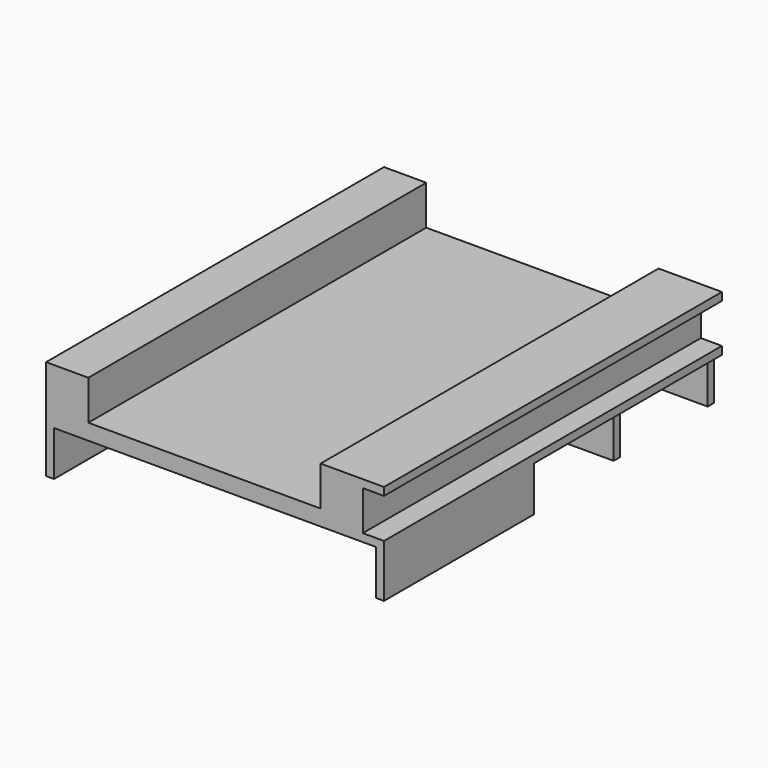
from build123d import *

# Parameters (mm, degrees)
F0_W      = 762
F0_H      = 1016
F1_DEPTH  = 19.05
F2_W      = 101.6
F2_H      = 1016
F3_DEPTH  = 76.2
F4_W      = 152.4
F4_H      = 1016
F5_DEPTH  = 19.05
F6_W      = 812.8
F6_H      = 1016
F7_DEPTH  = 19.05
F8_W      = 101.6
F8_H      = 1016
F9_DEPTH  = 19.05
F10_W     = 19.05
F10_H     = 431.8
F10_W_2   = 387.35
F10_H_2   = 19.05
F10_W_3   = 368.3
F11_DEPTH = 107.95


with BuildPart() as f1:
    # F0 (on Top) → F1 (new body)
    with BuildSketch(Plane.XY):
        with Locations((381, 508)):
            Rectangle(F0_W, F0_H)
    extrude(amount=F1_DEPTH)

    # F2 (on face) → F3 (join)
    with BuildSketch(Plane.XY.offset(19.05)):
        with Locations((50.8, 508)):
            Rectangle(F2_W, F2_H)
        with Locations((711.2, 508)):
            Rectangle(F2_W, F2_H)
    extrude(amount=F3_DEPTH)

    # F4 (on face) → F5 (join)
    with BuildSketch(Plane.XY.offset(95.25)):
        with Locations((736.6, 508)):
            Rectangle(F4_W, F4_H)
    extrude(amount=F5_DEPTH)

    # F6 (on face) → F7 (join)
    with BuildSketch(Plane(origin=(0, 0, 0), x_dir=(1, 0, 0), z_dir=(0, 0, -1))):
        with Locations((406.4, -508)):
            Rectangle(F6_W, F6_H)
    extrude(amount=F7_DEPTH)

    # F8 (on face) → F9 (join)
    with BuildSketch(Plane.XY.offset(95.25)):
        with Locations((50.8, 508)):
            Rectangle(F8_W, F8_H)
    extrude(amount=F9_DEPTH)

    # F10 (on face) → F11 (join)
    with BuildSketch(Plane(origin=(0, 0, -19.05), x_dir=(1, 0, 0), z_dir=(0, 0, -1))):
        with Locations((9.525, -215.9)):
            Rectangle(F10_W, F10_H)
        Polygon((19.05, -431.8), (0, -431.8), (0, -450.85), (19.05, -450.85), (406.4, -450.85), (425.45, -450.85), (793.75, -450.85), (812.8, -450.85), (812.8, -431.8), (793.75, -431.8), align=None)
        with Locations((803.275, -215.9)):
            Rectangle(F10_W, F10_H)
        with Locations((212.725, -460.375)):
            Rectangle(F10_W_2, F10_H_2)
        Polygon((425.45, -450.85), (406.4, -450.85), (406.4, -469.9), (406.4, -714.375), (406.4, -733.425), (406.4, -996.95), (425.45, -996.95), (425.45, -733.425), (425.45, -714.375), (425.45, -469.9), align=None)
        with Locations((609.6, -460.375)):
            Rectangle(F10_W_3, F10_H_2)
        with Locations((212.725, -723.9)):
            Rectangle(F10_W_2, F10_H_2)
        with Locations((609.6, -723.9)):
            Rectangle(F10_W_3, F10_H_2)
        Polygon((425.45, -996.95), (406.4, -996.95), (19.05, -996.95), (19.05, -1016), (793.75, -1016), (793.75, -996.95), align=None)
    extrude(amount=F11_DEPTH)


solid = f1.part
